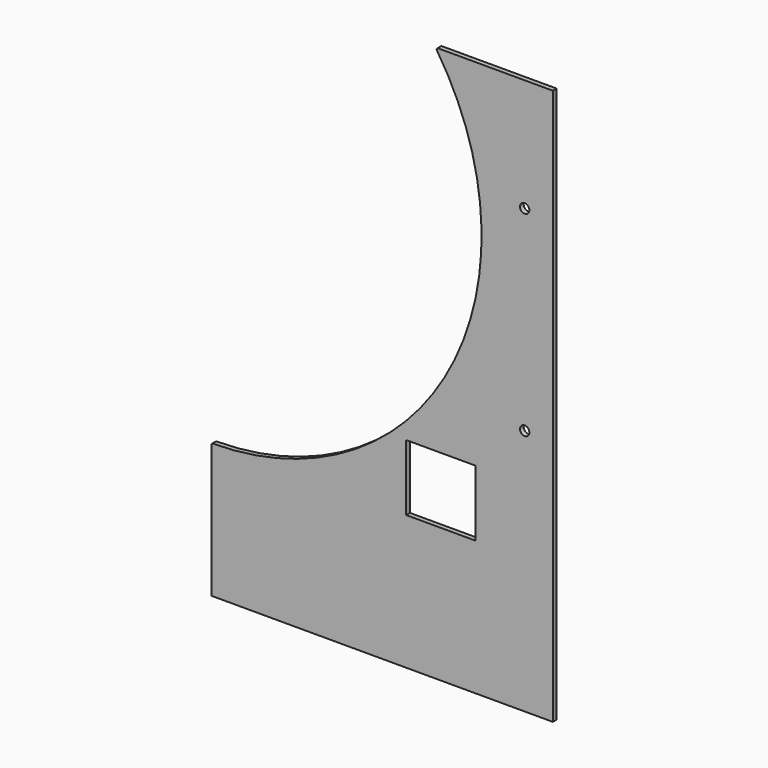
from build123d import *

# Parameters (mm, degrees)
F0_R     = 3.175
F1_DEPTH = 3.175
F3_R     = 1.016


with BuildPart() as f1:
    # F0 (on Front) → F1 (new body)
    with BuildSketch(Plane.XZ):
        with BuildLine():
            ThreePointArc((151.351172, 102.087654), (161.19312, -85.707902), (0, -182.5625))
            Line((0, -182.5625), (0, -273.3929))
            Line((0, -273.3929), (230.726172, -273.3929))
            Line((230.726172, -273.3929), (230.726172, -182.5625))
            Line((230.726172, -182.5625), (230.726172, 102.087654))
            Line((230.726172, 102.087654), (151.351172, 102.087654))
        make_face()
        with BuildLine():
            ThreePointArc((131.587777, -138.5951), (131.773765, -138.146087), (132.222777, -137.9601))
            Line((132.222777, -137.9601), (177.942777, -137.9601))
            ThreePointArc((177.942777, -137.9601), (178.39179, -138.146087), (178.577777, -138.5951))
            Line((178.577777, -138.5951), (178.577777, -182.5625))
            Line((178.577777, -182.5625), (131.587777, -182.5625))
            Line((131.587777, -182.5625), (131.587777, -138.5951))
        make_face(mode=Mode.SUBTRACT)
        with Locations((211.676172, -106.3625)):
            Circle(F0_R, mode=Mode.SUBTRACT)
        with Locations((211.676172, 25.887654)):
            Circle(F0_R, mode=Mode.SUBTRACT)
    extrude(amount=F1_DEPTH)

    # F3
    f3_edges = [f1.edges().sort_by_distance(p)[0] for p in [
        (151.351172, -1.5875, 102.087654),
        (0, -1.5875, -182.5625),
    ]]
    fillet(f3_edges, radius=F3_R)


solid = f1.part
